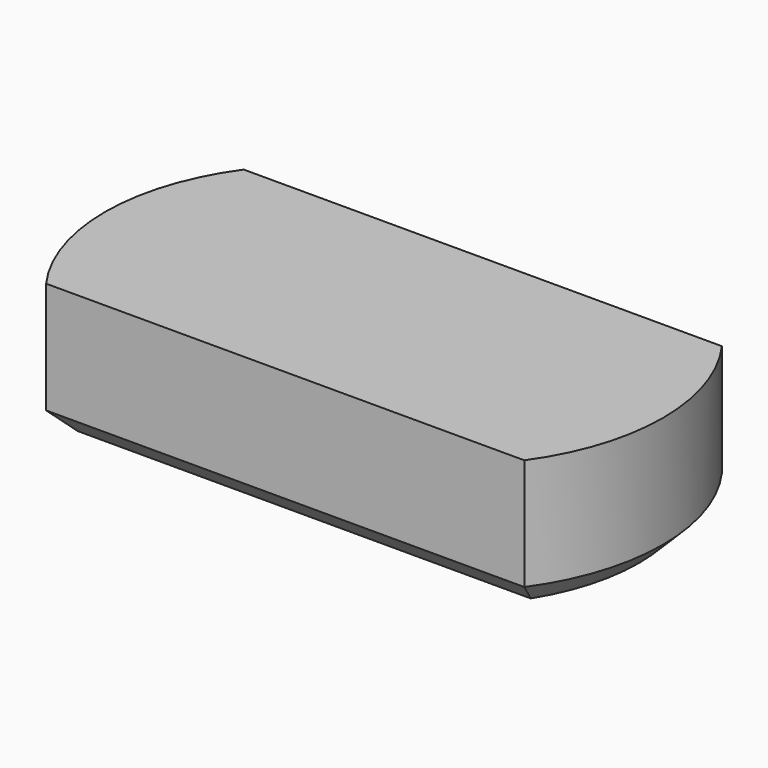
from build123d import *

# Parameters (mm, degrees)
F0_W     = 60
F0_H     = 31
F1_DEPTH = 17
F2_SIZE  = 3


with BuildPart() as f1:
    # F0 (on Top) → F1 (new body)
    with BuildSketch(Plane.XY):
        Rectangle(F0_W, F0_H)
        with BuildLine():
            ThreePointArc((-30, 15.5), (-35, 0), (-30, -15.5))
            Line((-30, -15.5), (-30, 15.5))
        make_face()
        with BuildLine():
            Line((30, 15.5), (30, -15.5))
            ThreePointArc((30, -15.5), (35, 0), (30, 15.5))
        make_face()
    extrude(amount=F1_DEPTH)

    # F2
    f2_edges = [f1.edges().sort_by_distance(p)[0] for p in [
        (0, -15.5, 0),
        (35, 0, 0),
        (0, 15.5, 0),
        (-35, 0, 0),
    ]]
    chamfer(f2_edges, length=F2_SIZE)


solid = f1.part
